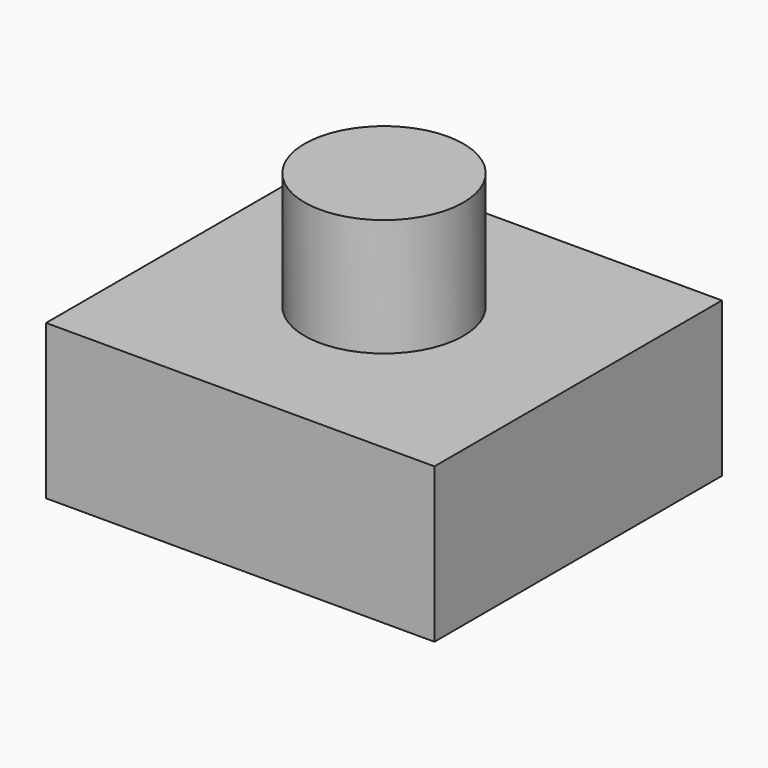
from build123d import *

# Parameters (mm, degrees)
F0_W     = 63.871622
F0_H     = 59.098296
F1_DEPTH = 25.4
F2_W     = 13.069816
F2_H     = 19.320598


with BuildPart() as f1:
    # F0 (on Top) → F1 (new body)
    with BuildSketch(Plane.XY):
        Rectangle(F0_W, F0_H)
    extrude(amount=F1_DEPTH)


with BuildPart() as f3:
    # F2 (on Right) → F3 (revolve)
    with BuildSketch(Plane.YZ):
        with Locations((6.534908, 35.799929)):
            Rectangle(F2_W, F2_H)
    revolve(axis=Axis((0, 0, 35.799929), (0, 0, -1)))


solid = Compound([f1.part, f3.part])
